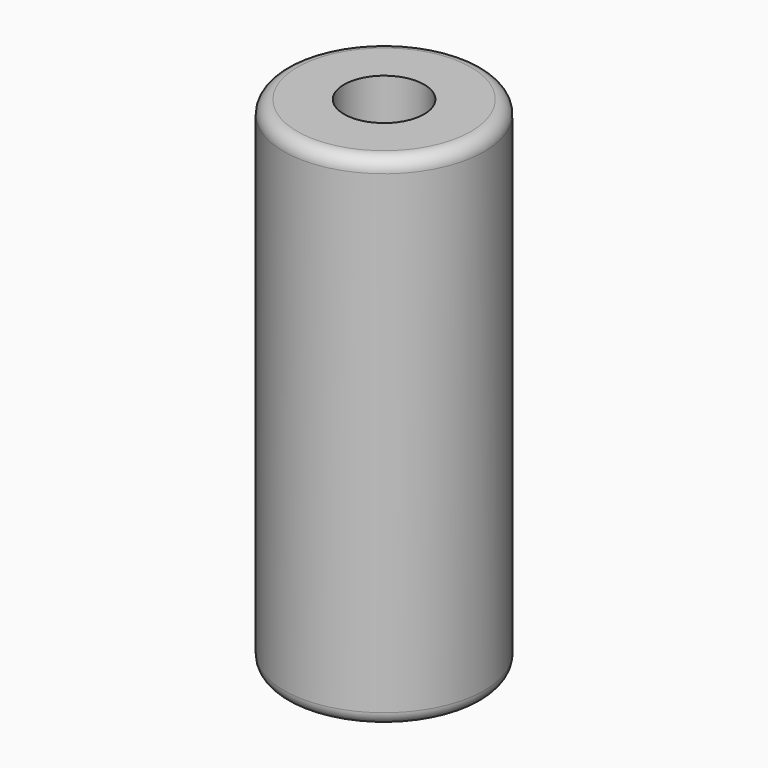
from build123d import *

# Parameters (mm, degrees)
F0_R     = 15
F1_DEPTH = 37.5
F2_R     = 2
F3_R     = 6
F4_DEPTH = 75.001


with BuildPart() as f1:
    # F0 (on Top) → F1 (new body, symmetric)
    with BuildSketch(Plane.XY):
        Circle(F0_R)
    extrude(amount=F1_DEPTH, both=True)

    # F2
    f2_edges = [f1.edges().sort_by_distance(p)[0] for p in [
        (-15, 0, 37.5),
        (-15, 0, -37.5),
    ]]
    fillet(f2_edges, radius=F2_R)

    # F3 (on face) → F4 (cut, through all)
    with BuildSketch(Plane.XY.offset(37.5)):
        Circle(F3_R)
    extrude(amount=-F4_DEPTH, mode=Mode.SUBTRACT)


solid = f1.part
